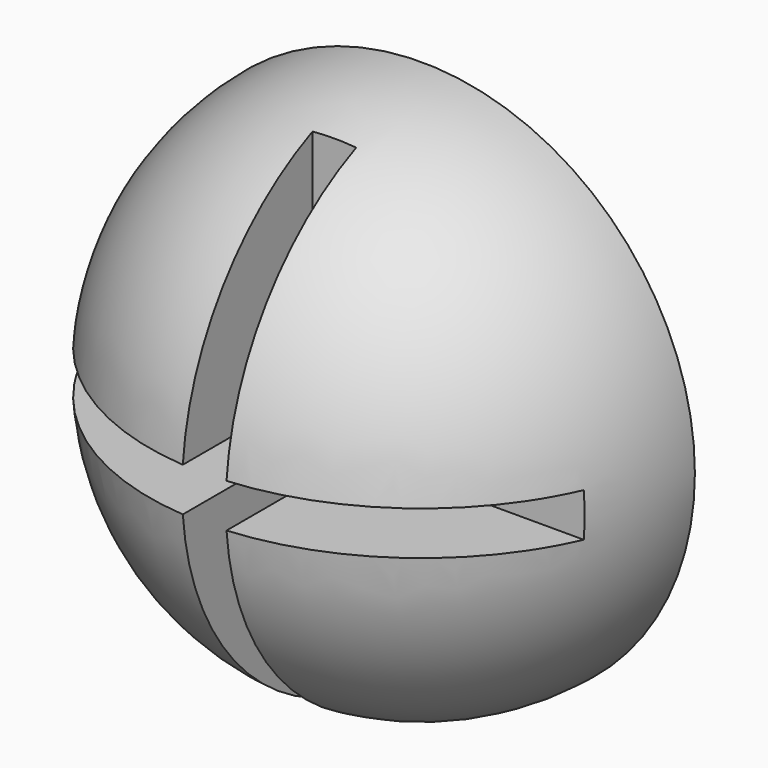
from build123d import *

# Parameters (mm, degrees)
F1_ANGLE = 180
F2_W     = 25.4
F2_H     = 2.032
F3_DEPTH = 12.7
F4_W     = 2.032
F4_H     = 25.4
F5_DEPTH = 12.7


with BuildPart() as f1:
    # F0 (on Front) → F1 (revolve)
    with BuildSketch(Plane.XZ):
        with BuildLine():
            ThreePointArc((12.7, 0), (0, 12.7), (-12.7, 0))
            Line((-12.7, 0), (12.7, 0))
        make_face()
    revolve(axis=Axis((0, 0, 0), (1, 0, 0)), revolution_arc=F1_ANGLE)

    # F2 (on Right) → F3 (cut, symmetric)
    with BuildSketch(Plane.YZ):
        with Locations((-17.78, 0)):
            Rectangle(F2_W, F2_H)
    extrude(amount=F3_DEPTH, both=True, mode=Mode.SUBTRACT)

    # F4 (on Top) → F5 (cut, symmetric)
    with BuildSketch(Plane.XY):
        with Locations((0, -17.78)):
            Rectangle(F4_W, F4_H)
    extrude(amount=F5_DEPTH, both=True, mode=Mode.SUBTRACT)


solid = f1.part
